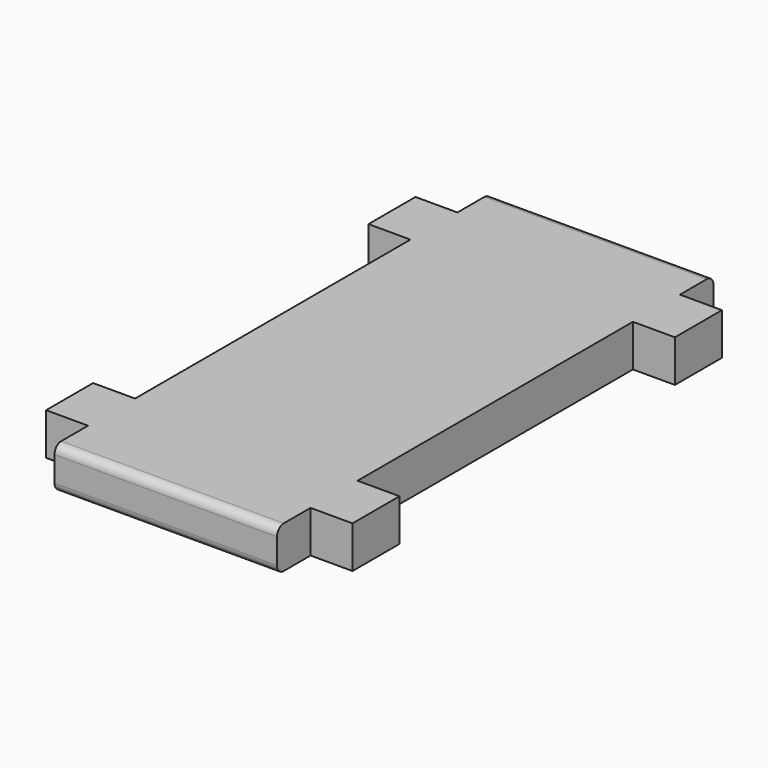
from build123d import *

# Parameters (mm, degrees)
F0_W     = 25
F0_H     = 35
F1_DEPTH = 25
F3_R     = 5


with BuildPart() as f1:
    # F0 (on Top) → F1 (new body)
    with BuildSketch(Plane.XY):
        with Locations((-81.198196, -25.874247)):
            Rectangle(F0_W, F0_H)
        with Locations((-81.198196, 214.125753)):
            Rectangle(F0_W, F0_H)
        Polygon((-2.448196, 256.625753), (-68.698196, 256.625753), (-68.698196, 231.625753), (-68.698196, 196.625753), (-68.698196, -8.374247), (-68.698196, -43.374247), (-68.698196, -68.374247), (-2.448196, -68.374247), align=None)
    extrude(amount=F1_DEPTH)

    # F2: F1 across face


with BuildPart() as f1_1:
    add(f1.part)
    add(f1.part.mirror(Plane(origin=(-2.448196, 94.125753, 12.5), x_dir=(0, 1, 0), z_dir=(1, 0, 0))))

    # F3
    f3_edges = [f1_1.edges().sort_by_distance(p)[0] for p in [
        (-2.448196, 256.625753, 0),
        (-2.448196, 256.625753, 25),
        (-2.448196, -68.374247, 0),
        (-2.448196, -68.374247, 25),
    ]]
    fillet(f3_edges, radius=F3_R)


solid = f1_1.part
